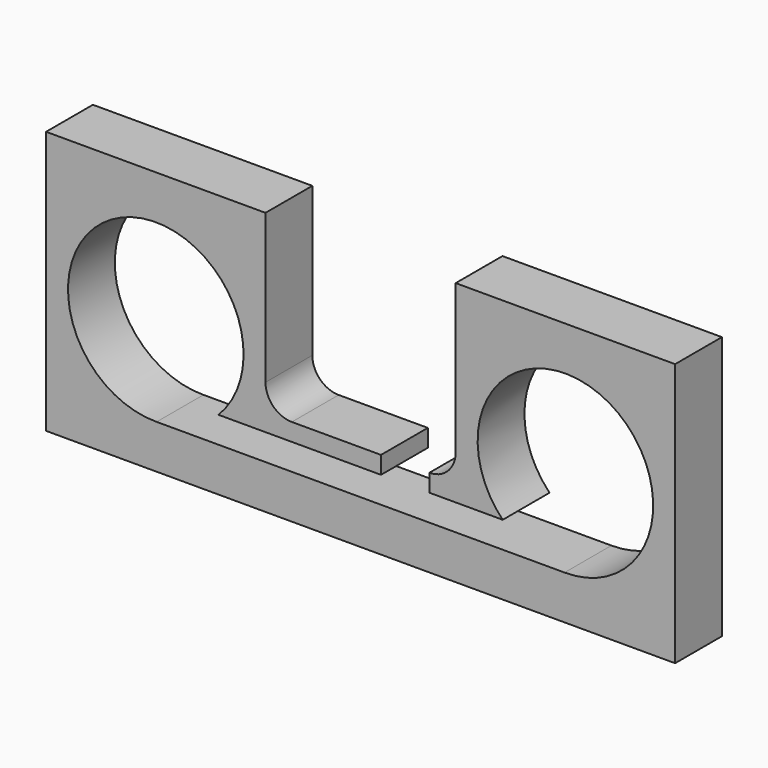
from build123d import *

# Parameters (mm, degrees)
F0_W     = 273.05
F0_H     = 114.3
F0_R     = 38.1
F1_DEPTH = 25.4
F3_DEPTH = 25.4
F5_DEPTH = 25.4


with BuildPart() as f1:
    # F0 (on Front) → F1 (new body)
    with BuildSketch(Plane.XZ):
        with Locations((136.525, 57.15)):
            Rectangle(F0_W, F0_H)
        with Locations((47.625, 57.15)):
            Circle(F0_R, mode=Mode.SUBTRACT)
        with Locations((225.425, 57.15)):
            Circle(F0_R, mode=Mode.SUBTRACT)
    extrude(amount=F1_DEPTH)

    # F2 (on face) → F3 (cut)
    with BuildSketch(Plane.XZ.offset(25.4)):
        with BuildLine():
            Line((177.8, 114.3), (95.25, 114.3))
            Line((95.25, 114.3), (95.25, 49.53))
            ThreePointArc((95.25, 49.53), (98.597769, 41.447769), (106.68, 38.1))
            Line((106.68, 38.1), (166.37, 38.1))
            ThreePointArc((166.37, 38.1), (174.452231, 41.447769), (177.8, 49.53))
            Line((177.8, 49.53), (177.8, 114.3))
        make_face()
    extrude(amount=-F3_DEPTH, mode=Mode.SUBTRACT)

    # F4 (on face) → F5 (cut)
    with BuildSketch(Plane.XZ.offset(25.4)):
        Polygon((166.37, 30.481706), (166.37, 38.1), (145.37774, 38.1), (145.37774, 30.481706), (74.835515, 30.481706), (47.264424, 19.051706), (225.064424, 19.051706), (198.214485, 30.481706), align=None)
    extrude(amount=-F5_DEPTH, mode=Mode.SUBTRACT)


solid = f1.part
